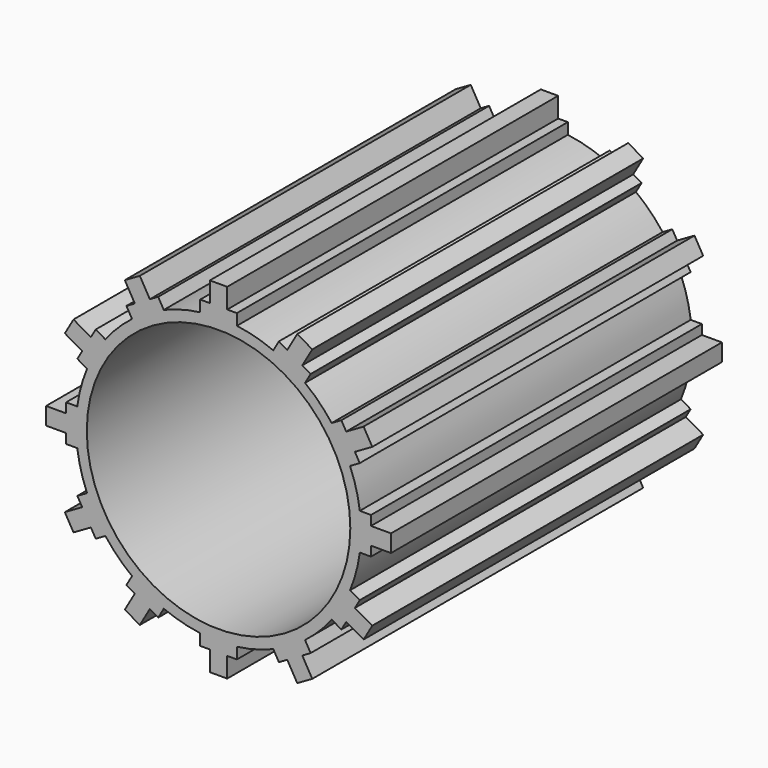
from build123d import *

# Parameters (mm, degrees)
F0_R     = 21.35
F0_R_2   = 19.75
F1_DEPTH = 62
F3_DEPTH = 62
F4_COUNT = 12


with BuildPart() as f1:
    # F0 (on Front) → F1 (new body)
    with BuildSketch(Plane.XZ):
        Circle(F0_R)
        Circle(F0_R_2, mode=Mode.SUBTRACT)
    extrude(amount=F1_DEPTH)

    # F2 (on face) → F3 (join)
    with BuildSketch(Plane(origin=(0, 0, 0), x_dir=(-1, 0, 0), z_dir=(0, 1, 0))):
        with BuildLine():
            Line((-2.75, 22.85), (-2.75, 21.1721515203))
            ThreePointArc((-2.75, 21.1721515203), (0, 21.35), (2.75, 21.1721515203))
            Line((2.75, 21.1721515203), (2.75, 22.85))
            Line((2.75, 22.85), (1.3, 22.85))
            Line((1.3, 22.85), (1.3, 25.85))
            Line((1.3, 25.85), (-1.3, 25.85))
            Line((-1.3, 25.85), (-1.3, 22.85))
            Line((-1.3, 22.85), (-2.75, 22.85))
        make_face()
        with BuildLine():
            Line((-2.75, 22.85), (-2.75, 21.1721515203))
            ThreePointArc((-2.75, 21.1721515203), (0, 21.35), (2.75, 21.1721515203))
            Line((2.75, 21.1721515203), (2.75, 22.85))
            Line((2.75, 22.85), (1.3, 22.85))
            Line((1.3, 22.85), (1.3, 25.85))
            Line((1.3, 25.85), (-1.3, 25.85))
            Line((-1.3, 25.85), (-1.3, 22.85))
            Line((-1.3, 22.85), (-2.75, 22.85))
        make_face()
    extrude(amount=-F3_DEPTH)

    # F4: F1 ×12 about axis
    f4_axis = Axis((0, 0, 0), (0, 1, 0))


with BuildPart() as f1_1:
    add(f1.part)
    for i in range(1, F4_COUNT):
        add(f1.part.rotate(f4_axis, i * 360 / F4_COUNT))


solid = f1_1.part
